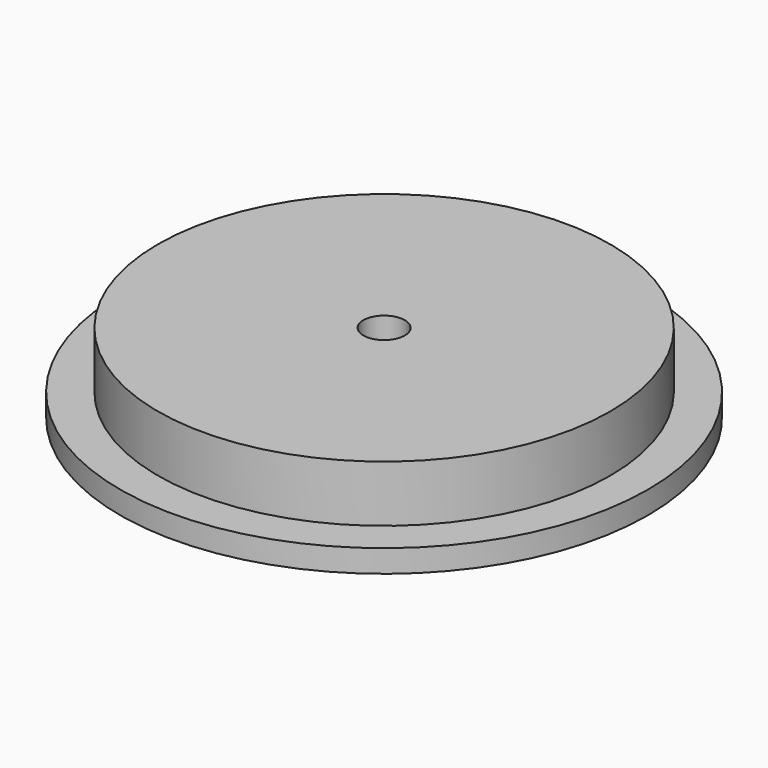
from build123d import *

# Parameters (mm, degrees)
F0_R     = 44.45
F1_DEPTH = 3.81
F2_R     = 38.1
F3_DEPTH = 9.525
F5_D     = 6.985


with BuildPart() as f1:
    # F0 (on Top) → F1 (new body)
    with BuildSketch(Plane.XY):
        Circle(F0_R)
    extrude(amount=F1_DEPTH)

    # F2 (on face) → F3 (join)
    with BuildSketch(Plane.XY.offset(3.81)):
        Circle(F2_R)
    extrude(amount=F3_DEPTH)

    # F5 (through all)
    with Locations(Plane.XY.offset(13.335)):
        with Locations((0, 0)):
            Hole(F5_D / 2)


solid = f1.part
